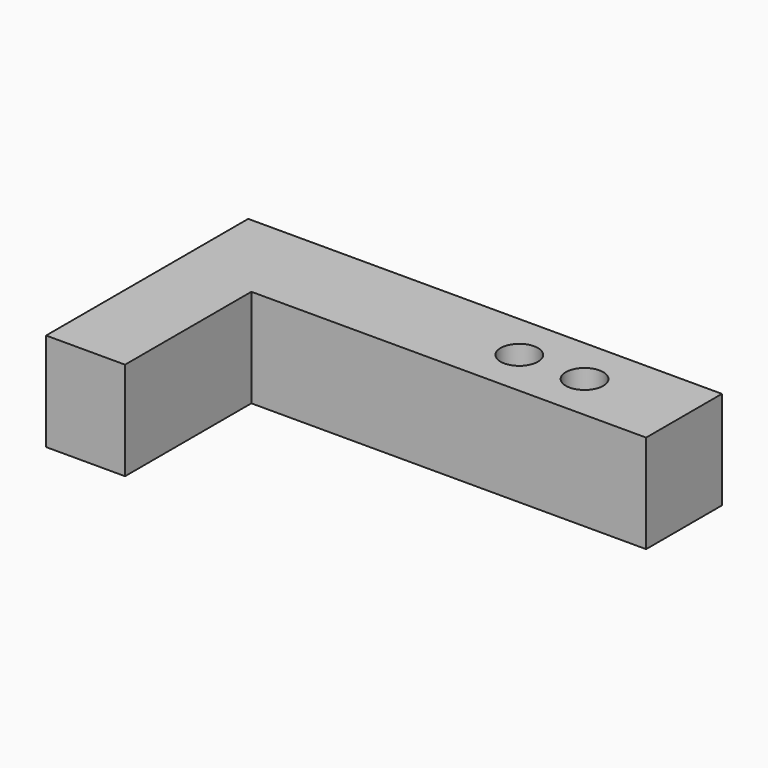
from build123d import *

# Parameters (mm, degrees)
F1_DEPTH = 7.9
F3_DEPTH = 25.4


with BuildPart() as f1:
    # F0 (on Top) → F1 (new body)
    with BuildSketch(Plane.XY):
        Polygon((-38.1, 0), (-31.75, 0), (-31.75, 12.7), (0, 12.7), (0, 20.32), (-38.1, 20.32), align=None)
    extrude(amount=F1_DEPTH)

    # F2 (on face) → F3 (cut)
    with BuildSketch(Plane(origin=(0, 0, 0), x_dir=(1, 0, 0), z_dir=(0, 0, -1))):
        with BuildLine():
            Line((-9.5, -16.51), (-6.5, -16.51))
            ThreePointArc((-6.5, -16.51), (-8, -15.01), (-9.5, -16.51))
        make_face()
        with BuildLine():
            ThreePointArc((-14.75, -16.51), (-13.25, -18.01), (-11.75, -16.51))
            Line((-11.75, -16.51), (-14.75, -16.51))
        make_face()
        with BuildLine():
            Line((-14.75, -16.51), (-11.75, -16.51))
            ThreePointArc((-11.75, -16.51), (-13.25, -15.01), (-14.75, -16.51))
        make_face()
        with BuildLine():
            ThreePointArc((-9.5, -16.51), (-8, -18.01), (-6.5, -16.51))
            Line((-6.5, -16.51), (-9.5, -16.51))
        make_face()
    extrude(amount=-F3_DEPTH, mode=Mode.SUBTRACT)


solid = f1.part
